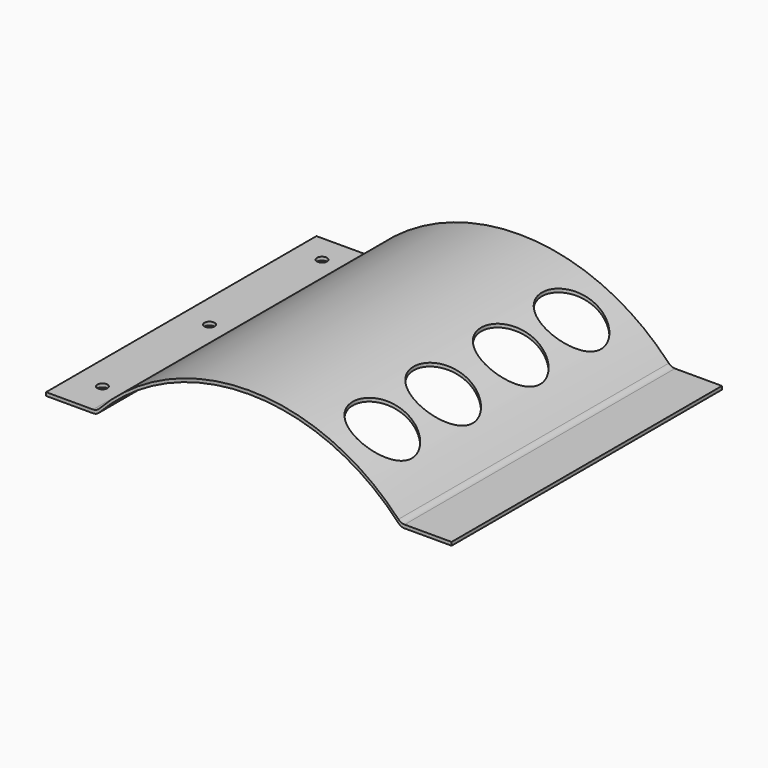
from build123d import *

# Parameters (mm, degrees)
F0_W     = 30
F0_H     = 2
F1_DEPTH = 200
F2_R     = 3
F3_DEPTH = 25
F2_R_2   = 17.5
F4_DEPTH = 50
F5_R     = 5
F6_R     = 5


with BuildPart() as f1:
    # F0 (on Front) → F1 (new body)
    with BuildSketch(Plane.XZ):
        with Locations((-105, 1)):
            Rectangle(F0_W, F0_H)
        with BuildLine():
            Line((-90, 2), (-90, 0))
            ThreePointArc((-90, 0), (0, 40), (90, 0))
            Line((90, 0), (90, 2))
            ThreePointArc((90, 2), (0, 42), (-90, 2))
        make_face()
        with Locations((105, 1)):
            Rectangle(F0_W, F0_H)
    extrude(amount=F1_DEPTH)

    # F2 (on face) → F3 (cut)
    with BuildSketch(Plane.XY.offset(2)):
        with Locations((-103.241667, -16.80618)):
            Circle(F2_R)
        with Locations((-103.241667, -100)):
            Circle(F2_R)
        with Locations((-103.241667, -179.280475)):
            Circle(F2_R)
    extrude(amount=-F3_DEPTH, mode=Mode.SUBTRACT)

    # F2 (on face) → F4 (cut)
    with BuildSketch(Plane.XY.offset(2)):
        with Locations((55, -30)):
            Circle(F2_R_2)
        with Locations((55, -75)):
            Circle(F2_R_2)
        with Locations((55, -125)):
            Circle(F2_R_2)
        with Locations((55, -170)):
            Circle(F2_R_2)
    extrude(amount=F4_DEPTH, mode=Mode.SUBTRACT)

    # F5
    f5_edges = [f1.edges().sort_by_distance(p)[0] for p in [
        (-90, -100, 0),
        (-90, -100, 2),
    ]]
    fillet(f5_edges, radius=F5_R)

    # F6
    f6_edges = [f1.edges().sort_by_distance(p)[0] for p in [
        (90, -100, 2),
        (90, -100, 0),
    ]]
    fillet(f6_edges, radius=F6_R)


solid = f1.part
